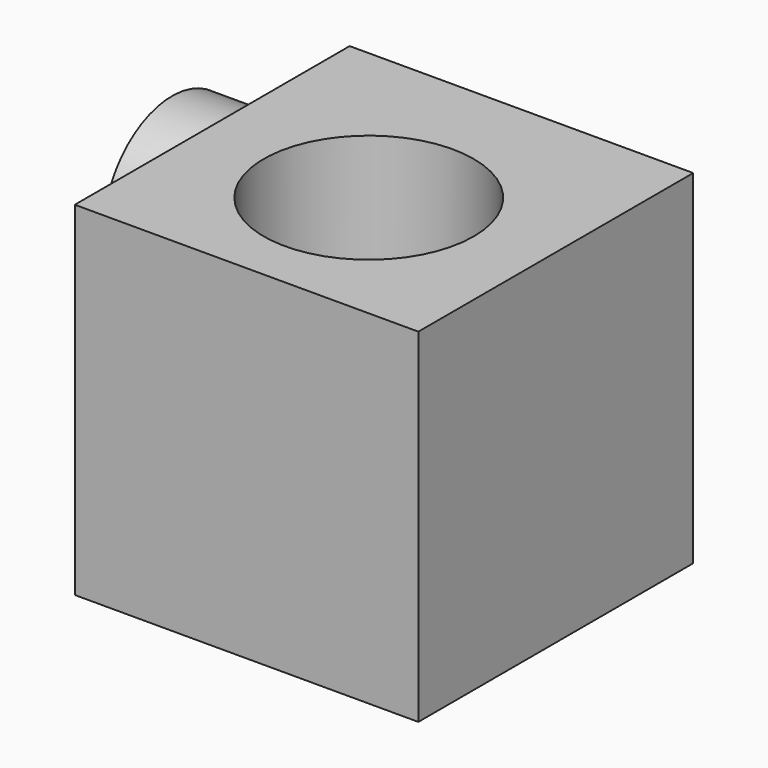
from build123d import *

# Parameters (mm, degrees)
F0_W     = 90
F0_H     = 90
F1_DEPTH = 90
F2_R     = 27.5
F3_DEPTH = 90
F4_R     = 22.5
F5_DEPTH = 25


with BuildPart() as f1:
    # F0 (on Front) → F1 (new body)
    with BuildSketch(Plane.XZ):
        with Locations((2.812499, 10.546107)):
            Rectangle(F0_W, F0_H)
    extrude(amount=F1_DEPTH)

    # F2 (on face) → F3 (cut, through all)
    with BuildSketch(Plane.XY.offset(55.546107)):
        with Locations((2.812499, -50)):
            Circle(F2_R)
    extrude(amount=-F3_DEPTH, mode=Mode.SUBTRACT)

    # F4 (on face) → F5 (join)
    with BuildSketch(Plane(origin=(-42.187501, 0, 0), x_dir=(0, -1, 0), z_dir=(-1, 0, 0))):
        with Locations((26.878221, 24.340734)):
            Circle(F4_R)
    extrude(amount=F5_DEPTH)


solid = f1.part
